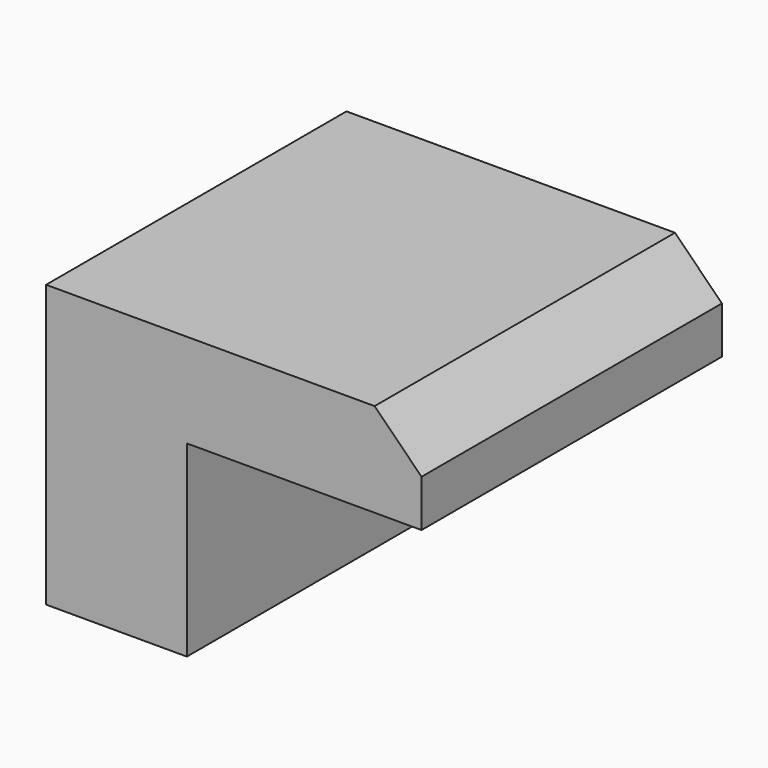
from build123d import *

# Parameters (mm, degrees)
BOX036_W                = 3
BOX036_H                = 8
BOX036_DEPTH            = 4
BOX035_W                = 8
BOX035_H                = 8
BOX035_DEPTH            = 2
CHAMFER_SIZE            = 1
CHAMFER_PLACEMENT_ANGLE = 180


with BuildPart() as cubo036:
    # Box036 → Box036 (new body)
    with BuildSketch(Plane(origin=(-13, -15, 2.5), x_dir=(1, 0, 0), z_dir=(0, 0, 1))):
        with Locations((1.5, 4)):
            Rectangle(BOX036_W, BOX036_H)
    extrude(amount=BOX036_DEPTH)


with BuildPart() as fusion002021:
    # Box035 → Box035 (new body)
    with BuildSketch(Plane(origin=(-13, -15, 6), x_dir=(1, 0, 0), z_dir=(0, 0, 1))):
        with Locations((4, 4)):
            Rectangle(BOX035_W, BOX035_H)
    extrude(amount=BOX035_DEPTH)

    # Chamfer
    chamfer_edges = [fusion002021.edges().sort_by_distance(p)[0] for p in [
        (-13, -11, 8),
    ]]
    chamfer(chamfer_edges, length=CHAMFER_SIZE)


with BuildPart() as fusion002021_1:
    # Chamfer placement: moved
    add(fusion002021.part.moved(Location((-18, -22, 0.5))).rotate(Axis((-18, -22, 0.5), (0, 0, 1)), CHAMFER_PLACEMENT_ANGLE))

    # Fusion002021: union Cubo036
    add(cubo036.part)


solid = fusion002021_1.part
